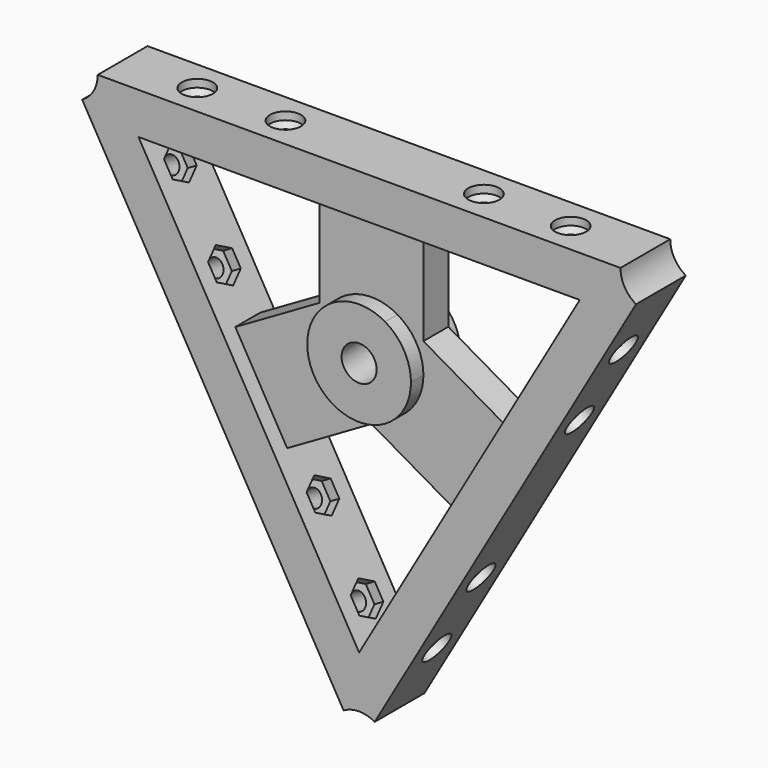
from build123d import *

# Parameters (mm, degrees)
F1_DEPTH  = 12
F2_START  = 3
F2_DEPTH  = 6
F3_D      = 6.7564
F5_START  = -6
F5_DEPTH  = 4
F6_D      = 3.3
F6_DEPTH  = 8
F6_TIP    = 0.9914200214
F7_D      = 6
F7_DEPTH  = 1.5
F7_TIP    = 1.8025818571
F9_START  = -6
F9_DEPTH  = 4
F10_D     = 3.3
F10_DEPTH = 8
F10_TIP   = 0.9914200214
F11_D     = 6
F11_DEPTH = 1.5
F11_TIP   = 1.8025818571
F13_START = -6
F13_DEPTH = 4
F14_D     = 6
F14_DEPTH = 1.5
F14_TIP   = 1.8025818571
F15_D     = 3.3
F15_DEPTH = 8
F15_START = 2.3111618
F15_TIP   = 0.9914200214


with BuildPart() as f1:
    # F0 (on Front) → F1 (new body)
    with BuildSketch(Plane.XZ):
        with BuildLine():
            Line((3, -59.9289579419), (53.4, 27.3664027596))
            ThreePointArc((53.4, 27.3664027596), (51.2038475773, 29.5625551823), (50.4, 32.5625551823))
            Line((50.4, 32.5625551823), (-50.4, 32.5625551823))
            ThreePointArc((-50.4, 32.5625551823), (-51.2038475773, 29.5625551823), (-53.4, 27.3664027596))
            Line((-53.4, 27.3664027596), (-3, -59.9289579419))
            ThreePointArc((-3, -59.9289579419), (0, -59.1251103646), (3, -59.9289579419))
        make_face()
        Polygon((10, 24.5625551823), (42.5435935394, 24.5625551823), (26.2717967697, -3.6210235533), (16.2717967697, -20.941531629), (0, -49.1251103646), (-16.2717967697, -20.941531629), (-26.2717967697, -3.6210235533), (-42.5435935394, 24.5625551823), (-10, 24.5625551823), align=None, mode=Mode.SUBTRACT)
    extrude(amount=F1_DEPTH)



with BuildPart() as f1b:
    # F0 (on Front) → F1, piece 2 (new body)
    with BuildSketch(Plane.XZ):
        with BuildLine():
            ThreePointArc((5, -8.6602540378), (8.6602540378, -5), (10, 0))
            ThreePointArc((10, 0), (8.6602540378, 5), (5, 8.6602540378))
            ThreePointArc((5, 8.6602540378), (0, 10), (-5, 8.6602540378))
            ThreePointArc((-5, 8.6602540378), (-8.6602540378, 5), (-10, 0))
            ThreePointArc((-10, 0), (-8.6602540378, -5), (-5, -8.6602540378))
            ThreePointArc((-5, -8.6602540378), (0, -10), (5, -8.6602540378))
        make_face()
    extrude(amount=F1_DEPTH)


with BuildPart() as f1_1:
    add(f1.part)

    add(f1b.part)  # F2 merges F1b
    # F0 (on Front) → F2 (join)
    with BuildSketch(Plane.XZ.offset(F2_START)):
        with BuildLine():
            Line((10, 5.7735026919), (10, 24.5625551823))
            Line((10, 24.5625551823), (-10, 24.5625551823))
            Line((-10, 24.5625551823), (-10, 5.7735026919))
            Line((-10, 5.7735026919), (-5, 8.6602540378))
            ThreePointArc((-5, 8.6602540378), (0, 10), (5, 8.6602540378))
            Line((5, 8.6602540378), (10, 5.7735026919))
        make_face()
        with BuildLine():
            Line((16.2717967697, -20.941531629), (26.2717967697, -3.6210235533))
            Line((26.2717967697, -3.6210235533), (10, 5.7735026919))
            Line((10, 5.7735026919), (10, 0))
            ThreePointArc((10, 0), (8.6602540378, -5), (5, -8.6602540378))
            Line((5, -8.6602540378), (0, -11.5470053838))
            Line((0, -11.5470053838), (16.2717967697, -20.941531629))
        make_face()
        with BuildLine():
            Line((-16.2717967697, -20.941531629), (0, -11.5470053838))
            Line((0, -11.5470053838), (-5, -8.6602540378))
            ThreePointArc((-5, -8.6602540378), (-8.6602540378, -5), (-10, 0))
            Line((-10, 0), (-10, 5.7735026919))
            Line((-10, 5.7735026919), (-26.2717967697, -3.6210235533))
            Line((-26.2717967697, -3.6210235533), (-16.2717967697, -20.941531629))
        make_face()
        with BuildLine():
            Line((-5, 8.6602540378), (-10, 5.7735026919))
            Line((-10, 5.7735026919), (-10, 0))
            ThreePointArc((-10, 0), (-8.6602540378, 5), (-5, 8.6602540378))
        make_face()
        with BuildLine():
            Line((10, 0), (10, 5.7735026919))
            Line((10, 5.7735026919), (5, 8.6602540378))
            ThreePointArc((5, 8.6602540378), (8.6602540378, 5), (10, 0))
        make_face()
        with BuildLine():
            Line((-5, -8.6602540378), (0, -11.5470053838))
            Line((0, -11.5470053838), (5, -8.6602540378))
            ThreePointArc((5, -8.6602540378), (0, -10), (-5, -8.6602540378))
        make_face()
    extrude(amount=F2_DEPTH)

    # F3 (through all)
    with Locations(Plane(origin=(0, 0, 0), x_dir=(1, 0, 0), z_dir=(0, 1, 0))):
        with Locations((0, 0)):
            Hole(F3_D / 2)

    # F4 (on face) → F5 (cut)
    with BuildSketch(Plane(origin=(-28.2, 0, -16.2812775911), x_dir=(0, -1, 0), z_dir=(-0.8660254038, 0, -0.5)).offset(F5_START)):
        Polygon((8.9, -34.3256842194), (6, -32.6513684387), (3.1, -34.3256842194), (3.1, -37.6743157806), (6, -39.3486315613), (8.9, -37.6743157806), align=None)
        Polygon((3.1, -20.6743157806), (6, -22.3486315613), (8.9, -20.6743157806), (8.9, -17.3256842194), (6, -15.6513684387), (3.1, -17.3256842194), align=None)
        Polygon((8.9, 17.3256842194), (8.9, 20.6743157806), (6, 22.3486315613), (3.1, 20.6743157806), (3.1, 17.3256842194), (6, 15.6513684387), align=None)
        Polygon((6, 32.6513684387), (8.9, 34.3256842194), (8.9, 37.6743157806), (6, 39.3486315613), (3.1, 37.6743157806), (3.1, 34.3256842194), align=None)
    extrude(amount=-F5_DEPTH, mode=Mode.SUBTRACT)

    # F6
    with Locations(Plane(origin=(-28.2, 0, -16.2812775911), x_dir=(0, -1, 0), z_dir=(-0.8660254038, 0, -0.5))):
        with Locations((6, -36), (6, -19), (6, 19), (6, 36)):
            Hole(F6_D / 2, depth=F6_DEPTH)
            with Locations((0, 0, -(F6_DEPTH + F6_TIP / 2))):  # 118° drill point
                Cone(0, F6_D / 2, F6_TIP, mode=Mode.SUBTRACT)

    # F7
    with Locations(Plane(origin=(-28.2, 0, -16.2812775911), x_dir=(0, -1, 0), z_dir=(-0.8660254038, 0, -0.5))):
        with Locations((6, -36), (6, -19), (6, 19), (6, 36)):
            Hole(F7_D / 2, depth=F7_DEPTH)
            with Locations((0, 0, -(F7_DEPTH + F7_TIP / 2))):  # 118° drill point
                Cone(0, F7_D / 2, F7_TIP, mode=Mode.SUBTRACT)

    # F8 (on face) → F9 (cut)
    with BuildSketch(Plane.XY.offset(32.5625551823).offset(F9_START)):
        Polygon((-34.3256842194, -8.9), (-32.6513684387, -6), (-34.3256842194, -3.1), (-37.6743157806, -3.1), (-39.3486315613, -6), (-37.6743157806, -8.9), align=None)
        Polygon((-20.6743157806, -8.9), (-17.3256842194, -8.9), (-15.6513684387, -6), (-17.3256842194, -3.1), (-20.6743157806, -3.1), (-22.3486315613, -6), align=None)
        Polygon((34.3256842194, -8.9), (37.6743157806, -8.9), (39.3486315613, -6), (37.6743157806, -3.1), (34.3256842194, -3.1), (32.6513684387, -6), align=None)
        Polygon((20.943141643, -8.908812938), (22.6174574237, -6.008812938), (20.943141643, -3.108812938), (17.5945100817, -3.108812938), (15.9201943011, -6.008812938), (17.5945100817, -8.908812938), align=None)
    extrude(amount=-F9_DEPTH, mode=Mode.SUBTRACT)

    # F10
    with Locations(Plane.XY.offset(32.5625551823)):
        with Locations((-36, -6), (-19, -6), (19.2688258624, -6.008812938), (36, -6)):
            Hole(F10_D / 2, depth=F10_DEPTH)
            with Locations((0, 0, -(F10_DEPTH + F10_TIP / 2))):  # 118° drill point
                Cone(0, F10_D / 2, F10_TIP, mode=Mode.SUBTRACT)

    # F11
    with Locations(Plane.XY.offset(32.5625551823)):
        with Locations((-36, -6), (-19, -6), (19.2688258624, -6.008812938), (36, -6)):
            Hole(F11_D / 2, depth=F11_DEPTH)
            with Locations((0, 0, -(F11_DEPTH + F11_TIP / 2))):  # 118° drill point
                Cone(0, F11_D / 2, F11_TIP, mode=Mode.SUBTRACT)

    # F12 (on face) → F13 (cut)
    with BuildSketch(Plane(origin=(28.2, 0, -16.2812775911), x_dir=(0, 1, 0), z_dir=(0.8660254038, 0, -0.5)).offset(F13_START)):
        Polygon((-8.9, 34.3256842194), (-6, 32.6513684387), (-3.1, 34.3256842194), (-3.1, 37.6743157806), (-6, 39.3486315613), (-8.9, 37.6743157806), align=None)
        Polygon((-3.1, 20.6743157806), (-6, 22.3486315613), (-8.9, 20.6743157806), (-8.9, 17.3256842194), (-6, 15.6513684387), (-3.1, 17.3256842194), align=None)
        Polygon((-6, -15.6513684387), (-8.9, -17.3256842194), (-8.9, -20.6743157806), (-6, -22.3486315613), (-3.1, -20.6743157806), (-3.1, -17.3256842194), align=None)
        Polygon((-6, -32.6513684387), (-8.9, -34.3256842194), (-8.9, -37.6743157806), (-6, -39.3486315613), (-3.1, -37.6743157806), (-3.1, -34.3256842194), align=None)
    extrude(amount=-F13_DEPTH, mode=Mode.SUBTRACT)

    # F14
    with Locations(Plane(origin=(28.2, 0, -16.2812775911), x_dir=(0, 1, 0), z_dir=(0.8660254038, 0, -0.5))):
        with Locations((-6, 36), (-6, 19), (-6, -19), (-6, -36)):
            Hole(F14_D / 2, depth=F14_DEPTH)
            with Locations((0, 0, -(F14_DEPTH + F14_TIP / 2))):  # 118° drill point
                Cone(0, F14_D / 2, F14_TIP, mode=Mode.SUBTRACT)

    # F15
    # its depths count from where the whole tool has entered the part; down to there all is cleared
    with Locations(Plane(origin=(28.2, 0, -16.2812775911), x_dir=(0, 1, 0), z_dir=(0.8660254038, 0, -0.5)).offset(-F15_START)):
        with Locations((-6, 36), (-6, 19), (-6, -19), (-6, -36)):
            Hole(F15_D / 2, depth=F15_DEPTH)
            with Locations((0, 0, -(F15_DEPTH + F15_TIP / 2))):  # 118° drill point
                Cone(0, F15_D / 2, F15_TIP, mode=Mode.SUBTRACT)


solid = f1_1.part
